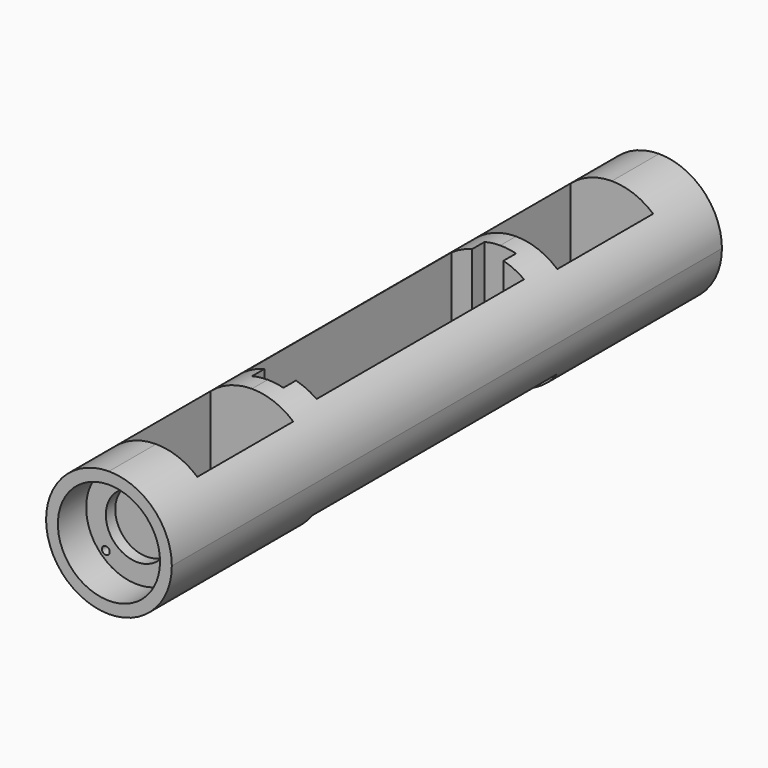
from build123d import *

# Parameters (mm, degrees)
F5_W      = 32
F5_H      = 175
F6_DEPTH  = 16
F7_W      = 21
F7_H      = 30.5
F8_DEPTH  = 32.001
F9_W      = 5.25
F9_H      = 66
F9_W_2    = 8
F9_H_2    = 4
F10_DEPTH = 18.5
F12_W     = 26
F12_H     = 78
F13_DEPTH = 10.5
F14_DEPTH = 175.001
F15_W     = 8
F15_H     = 4
F16_DEPTH = 21.501
F17_R     = 13
F18_DEPTH = 9
F19_R     = 1
F19_R_2   = 8
F20_DEPTH = 3


with BuildPart() as f6:
    # F5 (on Top) → F6 (new body, symmetric)
    with BuildSketch(Plane.XY):
        Rectangle(F5_W, F5_H)
    extrude(amount=F6_DEPTH, both=True)

    # F7 (on face) → F8 (cut, through all)
    with BuildSketch(Plane.XY.offset(16)):
        with Locations((0, 57.25)):
            Rectangle(F7_W, F7_H)
        with Locations((0, -57.25)):
            Rectangle(F7_W, F7_H)
    extrude(amount=-F8_DEPTH, mode=Mode.SUBTRACT)

    # F9 (on face) → F10 (cut)
    with BuildSketch(Plane.XY.offset(16)):
        with Locations((6.625, 0)):
            Rectangle(F9_W, F9_H)
        Rectangle(F9_W_2, F9_H)
        with Locations((-6.625, 0)):
            Rectangle(F9_W, F9_H)
        with Locations((0, 35)):
            Rectangle(F9_W_2, F9_H_2)
        with Locations((0, -35)):
            Rectangle(F9_W_2, F9_H_2)
    extrude(amount=-F10_DEPTH, mode=Mode.SUBTRACT)

    # F12 (on face) → F13 (cut)
    with BuildSketch(Plane(origin=(0, 0, -16), x_dir=(1, 0, 0), z_dir=(0, 0, -1))):
        Rectangle(F12_W, F12_H)
    extrude(amount=-F13_DEPTH, mode=Mode.SUBTRACT)

    # F11 (on face) → F14 (intersect, through all)
    with BuildSketch(Plane.XZ.offset(87.5)):
        with BuildLine():
            ThreePointArc((0, -16), (11.313708499, -11.313708499), (16, 0))
            ThreePointArc((16, 0), (11.313708499, 11.313708499), (0, 16))
            ThreePointArc((0, 16), (-11.313708499, 11.313708499), (-16, 0))
            ThreePointArc((-16, 0), (-11.313708499, -11.313708499), (0, -16))
        make_face()
    extrude(amount=-F14_DEPTH, mode=Mode.INTERSECT)

    # F15 (on face) → F16 (cut, through all)
    with BuildSketch(Plane(origin=(0, 0, -5.5), x_dir=(1, 0, 0), z_dir=(0, 0, -1))):
        with Locations((0, 35)):
            Rectangle(F15_W, F15_H)
        with Locations((0, -35)):
            Rectangle(F15_W, F15_H)
    extrude(amount=-F16_DEPTH, mode=Mode.SUBTRACT)

    # F17 (on face) → F18 (cut)
    with BuildSketch(Plane.XZ.offset(87.5)):
        Circle(F17_R)
    extrude(amount=-F18_DEPTH, mode=Mode.SUBTRACT)

    # F19 (on face) → F20 (cut)
    with BuildSketch(Plane.XZ.offset(78.5)):
        with Locations((8, -8)):
            Circle(F19_R)
        with Locations((-8, -8)):
            Circle(F19_R)
        with Locations((-8, 8)):
            Circle(F19_R)
        with Locations((8, 8)):
            Circle(F19_R)
        Circle(F19_R_2)
    extrude(amount=-F20_DEPTH, mode=Mode.SUBTRACT)


solid = f6.part
